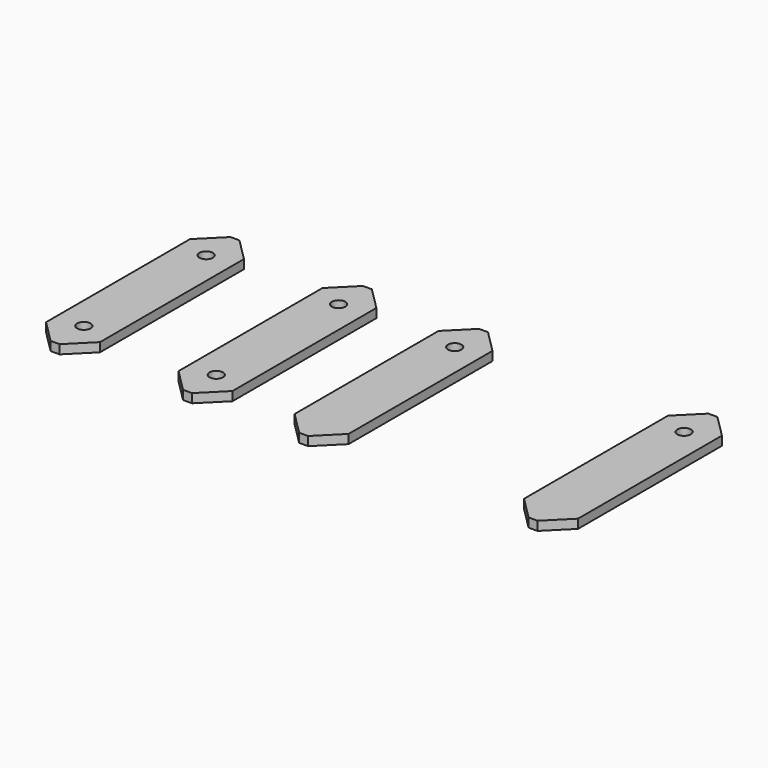
from build123d import *

# Parameters (mm, degrees)
F0_W     = 12
F0_H     = 50
F0_R     = 1.5
F1_DEPTH = 2
F2_SIZE  = 5


with BuildPart() as f1:
    # F0 (on Top) → F1 (new body)
    with BuildSketch(Plane.XY):
        with Locations((35.449521, 25)):
            Rectangle(F0_W, F0_H)
        with Locations((35.449521, 8)):
            Circle(F0_R, mode=Mode.SUBTRACT)
        with Locations((35.449521, 42)):
            Circle(F0_R, mode=Mode.SUBTRACT)
        with Locations((61.266034, 25)):
            Rectangle(F0_W, F0_H)
        with Locations((61.266034, 42)):
            Circle(F0_R, mode=Mode.SUBTRACT)
        with Locations((112.282799, 25)):
            Rectangle(F0_W, F0_H)
        with Locations((112.282799, 42)):
            Circle(F0_R, mode=Mode.SUBTRACT)
        with Locations((6, 25)):
            Rectangle(F0_W, F0_H)
        with Locations((6, 8)):
            Circle(F0_R, mode=Mode.SUBTRACT)
        with Locations((6, 42)):
            Circle(F0_R, mode=Mode.SUBTRACT)
    extrude(amount=F1_DEPTH)

    # F2
    f2_edges = [f1.edges().sort_by_distance(p)[0] for p in [
        (118.282799, 0, 1),
        (67.266034, 0, 1),
        (41.449521, 0, 1),
        (12, 0, 1),
        (0, 0, 1),
        (29.449521, 0, 1),
        (55.266034, 0, 1),
        (106.282799, 0, 1),
        (118.282799, 50, 1),
        (67.266034, 50, 1),
        (41.449521, 50, 1),
        (12, 50, 1),
        (106.282799, 50, 1),
        (55.266034, 50, 1),
        (29.449521, 50, 1),
        (0, 50, 1),
    ]]
    chamfer(f2_edges, length=F2_SIZE)


solid = f1.part
